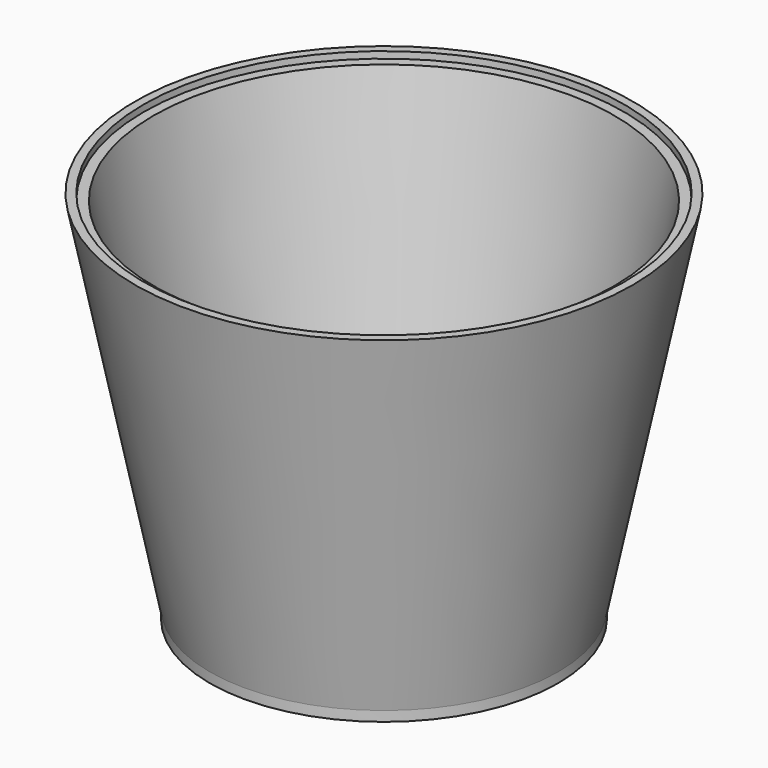
from build123d import *


with BuildPart() as f1:
    # F0 (on Front) → F1 (revolve)
    with BuildSketch(Plane.XZ):
        Polygon((0, 3), (0, 0), (52.5, 0), (52.5, 3), (47.3964746425, 3), align=None)
        Polygon((47.3964746425, 3), (52.5, 3), (75, 113), (72.4482373213, 113), (72.4482373213, 111), (69.4873837334, 111), align=None)
        Polygon((69.8964746425, 113), (69.4873837334, 111), (72.4482373213, 111), (72.4482373213, 113), align=None)
    revolve(axis=Axis((0, 0, 1.5), (0, 0, -1)))

    # F0 (on Front) → F2 (revolve, cut)
    with BuildSketch(Plane.XZ):
        Polygon((69.8964746425, 113), (69.4873837334, 111), (72.4482373213, 111), (72.4482373213, 113), align=None)
    revolve(axis=Axis((0, 0, 3), (0, 0, 1)), mode=Mode.SUBTRACT)


solid = f1.part
